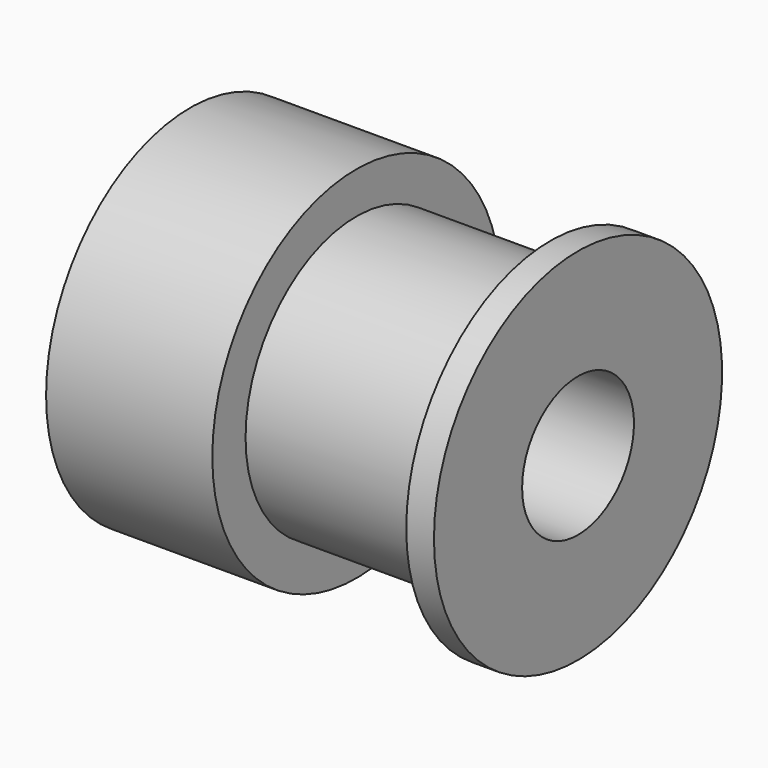
from build123d import *

# Parameters (mm, degrees)
SKETCH019_R             = 6.5
SKETCH019_R_2           = 2.5
PAD010_DEPTH            = 6
SKETCH020_R             = 5
SKETCH020_R_2           = 2.522437
PAD011_DEPTH            = 7
SKETCH021_R             = 6.5
SKETCH021_R_2           = 2.522437
PAD012_DEPTH            = 1
SKETCH022_R             = 1
PAD013_DEPTH            = 7
BODY011_PLACEMENT_ANGLE = 180


with BuildPart() as part:
    # Sketch019 → Pad010 (new body)
    with BuildSketch(Plane.YZ):
        Circle(SKETCH019_R)
        Circle(SKETCH019_R_2, mode=Mode.SUBTRACT)
    extrude(amount=PAD010_DEPTH)

    # Sketch020 (on Face3 of Pad010) → Pad011 (join)
    with BuildSketch(Plane(origin=(0, 0, 0), x_dir=(0, 1, 0), z_dir=(-1, 0, 0))):
        Circle(SKETCH020_R)
        Circle(SKETCH020_R_2, mode=Mode.SUBTRACT)
    extrude(amount=PAD011_DEPTH)

    # Sketch021 (on Face6 of Pad011) → Pad012 (join)
    with BuildSketch(Plane(origin=(-7, 0, 0), x_dir=(0, 1, 0), z_dir=(-1, 0, 0))):
        Circle(SKETCH021_R)
        Circle(SKETCH021_R_2, mode=Mode.SUBTRACT)
    extrude(amount=PAD012_DEPTH)

    # Sketch022 → Pad013 (join)
    with BuildSketch(Plane.XZ):
        with Locations((3, 0)):
            Circle(SKETCH022_R)
    extrude(amount=PAD013_DEPTH)


with BuildPart() as part_1:
    # Body011 placement: moved
    add(part.part.moved(Location((31, 0, 0))).rotate(Axis((31, 0, 0), (0, 0, 1)), BODY011_PLACEMENT_ANGLE))


solid = part_1.part
